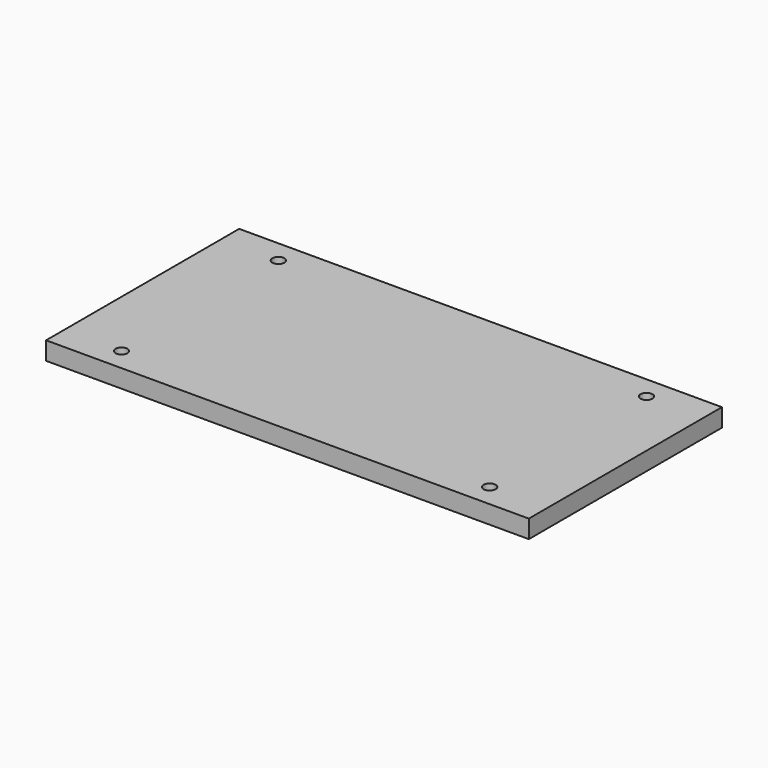
from build123d import *

# Parameters (mm, degrees)
SKETCH_W  = 160
SKETCH_H  = 80
SKETCH_R  = 2
PAD_DEPTH = 6


with BuildPart() as part:
    # Sketch → Pad (new body)
    with BuildSketch(Plane.XY):
        Rectangle(SKETCH_W, SKETCH_H)
        with Locations((-61, 32.5)):
            Circle(SKETCH_R, mode=Mode.SUBTRACT)
        with Locations((-61, -32.5)):
            Circle(SKETCH_R, mode=Mode.SUBTRACT)
        with Locations((61, 32.5)):
            Circle(SKETCH_R, mode=Mode.SUBTRACT)
        with Locations((61, -32.5)):
            Circle(SKETCH_R, mode=Mode.SUBTRACT)
    extrude(amount=PAD_DEPTH)


solid = part.part
